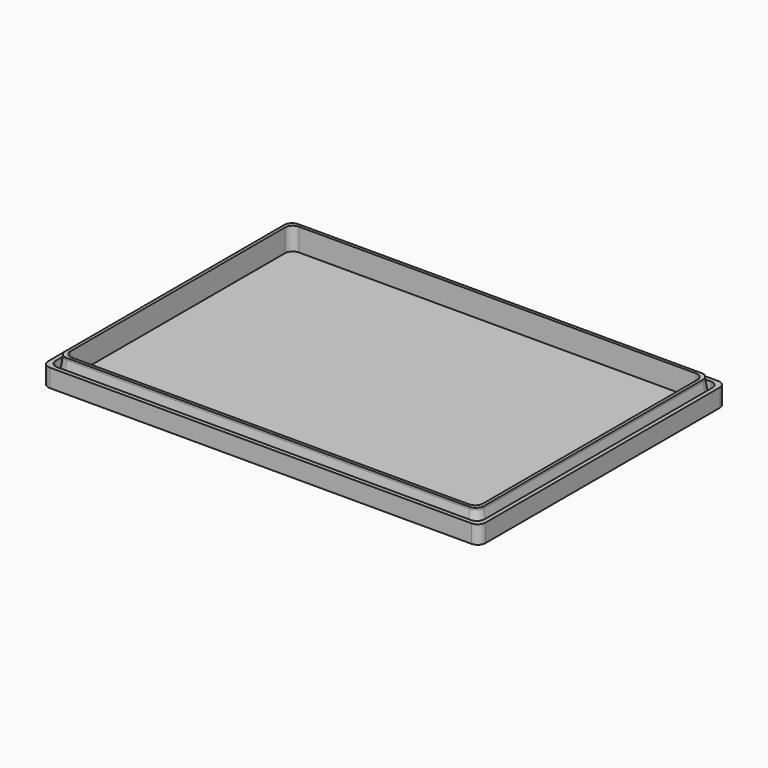
from build123d import *

# Parameters (mm, degrees)
F1_DEPTH = 1.2
F2_DEPTH = 10
F3_DEPTH = 7
F4_SIZE2 = 8
F4_SIZE  = 1.4


with BuildPart() as f1:
    # F0 (on Top) → F1 (new body)
    with BuildSketch(Plane.XY):
        with BuildLine():
            Line((81.8, 59.8), (-81.8, 59.8))
            ThreePointArc((-81.8, 59.8), (-83.9213203436, 58.9213203436), (-84.8, 56.8))
            Line((-84.8, 56.8), (-84.8, -56.8))
            ThreePointArc((-84.8, -56.8), (-83.9213203436, -58.9213203436), (-81.8, -59.8))
            Line((-81.8, -59.8), (81.8, -59.8))
            ThreePointArc((81.8, -59.8), (83.9213203436, -58.9213203436), (84.8, -56.8))
            Line((84.8, -56.8), (84.8, 56.8))
            ThreePointArc((84.8, 56.8), (83.9213203436, 58.9213203436), (81.8, 59.8))
        make_face()
        with BuildLine():
            ThreePointArc((83.2, -55.2), (82.3213203436, -57.3213203436), (80.2, -58.2))
            Line((80.2, -58.2), (-80.2, -58.2))
            ThreePointArc((-80.2, -58.2), (-82.3213203436, -57.3213203436), (-83.2, -55.2))
            Line((-83.2, -55.2), (-83.2, 55.2))
            ThreePointArc((-83.2, 55.2), (-82.3213203436, 57.3213203436), (-80.2, 58.2))
            Line((-80.2, 58.2), (80.2, 58.2))
            ThreePointArc((80.2, 58.2), (82.3213203436, 57.3213203436), (83.2, 55.2))
            Line((83.2, 55.2), (83.2, -55.2))
        make_face(mode=Mode.SUBTRACT)
        with BuildLine():
            Line((-80.2, -58.2), (80.2, -58.2))
            ThreePointArc((80.2, -58.2), (82.3213203436, -57.3213203436), (83.2, -55.2))
            Line((83.2, -55.2), (83.2, 55.2))
            ThreePointArc((83.2, 55.2), (82.3213203436, 57.3213203436), (80.2, 58.2))
            Line((80.2, 58.2), (-80.2, 58.2))
            ThreePointArc((-80.2, 58.2), (-82.3213203436, 57.3213203436), (-83.2, 55.2))
            Line((-83.2, 55.2), (-83.2, -55.2))
            ThreePointArc((-83.2, -55.2), (-82.3213203436, -57.3213203436), (-80.2, -58.2))
        make_face()
        with BuildLine():
            ThreePointArc((-81.2, 53.2), (-80.3213203436, 55.3213203436), (-78.2, 56.2))
            Line((-78.2, 56.2), (78.2, 56.2))
            ThreePointArc((78.2, 56.2), (80.3213203436, 55.3213203436), (81.2, 53.2))
            Line((81.2, 53.2), (81.2, -53.2))
            ThreePointArc((81.2, -53.2), (80.3213203436, -55.3213203436), (78.2, -56.2))
            Line((78.2, -56.2), (-78.2, -56.2))
            ThreePointArc((-78.2, -56.2), (-80.3213203436, -55.3213203436), (-81.2, -53.2))
            Line((-81.2, -53.2), (-81.2, 53.2))
        make_face(mode=Mode.SUBTRACT)
        with BuildLine():
            Line((78.2, 56.2), (-78.2, 56.2))
            ThreePointArc((-78.2, 56.2), (-80.3213203436, 55.3213203436), (-81.2, 53.2))
            Line((-81.2, 53.2), (-81.2, -53.2))
            ThreePointArc((-81.2, -53.2), (-80.3213203436, -55.3213203436), (-78.2, -56.2))
            Line((-78.2, -56.2), (78.2, -56.2))
            ThreePointArc((78.2, -56.2), (80.3213203436, -55.3213203436), (81.2, -53.2))
            Line((81.2, -53.2), (81.2, 53.2))
            ThreePointArc((81.2, 53.2), (80.3213203436, 55.3213203436), (78.2, 56.2))
        make_face()
        with BuildLine():
            ThreePointArc((-80, 52), (-79.1213203436, 54.1213203436), (-77, 55))
            Line((-77, 55), (77, 55))
            ThreePointArc((77, 55), (79.1213203436, 54.1213203436), (80, 52))
            Line((80, 52), (80, -52))
            ThreePointArc((80, -52), (79.1213203436, -54.1213203436), (77, -55))
            Line((77, -55), (-77, -55))
            ThreePointArc((-77, -55), (-79.1213203436, -54.1213203436), (-80, -52))
            Line((-80, -52), (-80, 52))
        make_face(mode=Mode.SUBTRACT)
        with BuildLine():
            Line((77, 55), (-77, 55))
            ThreePointArc((-77, 55), (-79.1213203436, 54.1213203436), (-80, 52))
            Line((-80, 52), (-80, -52))
            ThreePointArc((-80, -52), (-79.1213203436, -54.1213203436), (-77, -55))
            Line((-77, -55), (77, -55))
            ThreePointArc((77, -55), (79.1213203436, -54.1213203436), (80, -52))
            Line((80, -52), (80, 52))
            ThreePointArc((80, 52), (79.1213203436, 54.1213203436), (77, 55))
        make_face()
    extrude(amount=F1_DEPTH)

    # F0 (on Top) → F2 (join)
    with BuildSketch(Plane.XY):
        with BuildLine():
            Line((78.2, 56.2), (-78.2, 56.2))
            ThreePointArc((-78.2, 56.2), (-80.3213203436, 55.3213203436), (-81.2, 53.2))
            Line((-81.2, 53.2), (-81.2, -53.2))
            ThreePointArc((-81.2, -53.2), (-80.3213203436, -55.3213203436), (-78.2, -56.2))
            Line((-78.2, -56.2), (78.2, -56.2))
            ThreePointArc((78.2, -56.2), (80.3213203436, -55.3213203436), (81.2, -53.2))
            Line((81.2, -53.2), (81.2, 53.2))
            ThreePointArc((81.2, 53.2), (80.3213203436, 55.3213203436), (78.2, 56.2))
        make_face()
        with BuildLine():
            ThreePointArc((-80, 52), (-79.1213203436, 54.1213203436), (-77, 55))
            Line((-77, 55), (77, 55))
            ThreePointArc((77, 55), (79.1213203436, 54.1213203436), (80, 52))
            Line((80, 52), (80, -52))
            ThreePointArc((80, -52), (79.1213203436, -54.1213203436), (77, -55))
            Line((77, -55), (-77, -55))
            ThreePointArc((-77, -55), (-79.1213203436, -54.1213203436), (-80, -52))
            Line((-80, -52), (-80, 52))
        make_face(mode=Mode.SUBTRACT)
    extrude(amount=F2_DEPTH)

    # F0 (on Top) → F3 (join)
    with BuildSketch(Plane.XY):
        with BuildLine():
            Line((81.8, 59.8), (-81.8, 59.8))
            ThreePointArc((-81.8, 59.8), (-83.9213203436, 58.9213203436), (-84.8, 56.8))
            Line((-84.8, 56.8), (-84.8, -56.8))
            ThreePointArc((-84.8, -56.8), (-83.9213203436, -58.9213203436), (-81.8, -59.8))
            Line((-81.8, -59.8), (81.8, -59.8))
            ThreePointArc((81.8, -59.8), (83.9213203436, -58.9213203436), (84.8, -56.8))
            Line((84.8, -56.8), (84.8, 56.8))
            ThreePointArc((84.8, 56.8), (83.9213203436, 58.9213203436), (81.8, 59.8))
        make_face()
        with BuildLine():
            ThreePointArc((83.2, -55.2), (82.3213203436, -57.3213203436), (80.2, -58.2))
            Line((80.2, -58.2), (-80.2, -58.2))
            ThreePointArc((-80.2, -58.2), (-82.3213203436, -57.3213203436), (-83.2, -55.2))
            Line((-83.2, -55.2), (-83.2, 55.2))
            ThreePointArc((-83.2, 55.2), (-82.3213203436, 57.3213203436), (-80.2, 58.2))
            Line((-80.2, 58.2), (80.2, 58.2))
            ThreePointArc((80.2, 58.2), (82.3213203436, 57.3213203436), (83.2, 55.2))
            Line((83.2, 55.2), (83.2, -55.2))
        make_face(mode=Mode.SUBTRACT)
    extrude(amount=F3_DEPTH)

    # F4
    f4_edges = [f1.edges().sort_by_distance(p)[0] for p in [
        (-81.2, 0, 1.2),
    ]]
    chamfer(f4_edges, length=F4_SIZE, length2=F4_SIZE2)


solid = f1.part
